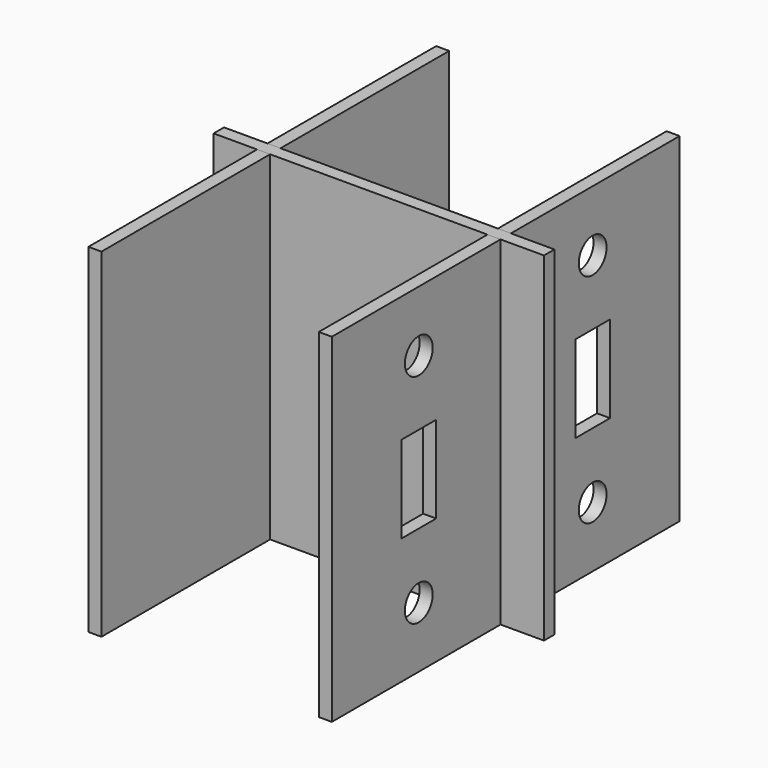
from build123d import *

# Parameters (mm, degrees)
F0_W     = 100
F0_H     = 78
F0_R     = 4
F0_W_2   = 10
F0_H_2   = 20
F1_DEPTH = 3
F3_W     = 100
F3_H     = 78
F4_DEPTH = 3
F5_W     = 56
F5_H     = 78
F5_R     = 2
F5_W_2   = 10
F6_DEPTH = 1.5


with BuildPart() as f1:
    # F0 (on Right) → F1 (new body)
    with BuildSketch(Plane.YZ):
        Rectangle(F0_W, F0_H)
        with Locations((-25, -25)):
            Circle(F0_R, mode=Mode.SUBTRACT)
        with Locations((25, -25)):
            Circle(F0_R, mode=Mode.SUBTRACT)
        with Locations((-25, 0)):
            Rectangle(F0_W_2, F0_H_2, mode=Mode.SUBTRACT)
        with Locations((-25, 25)):
            Circle(F0_R, mode=Mode.SUBTRACT)
        with Locations((25, 0)):
            Rectangle(F0_W_2, F0_H_2, mode=Mode.SUBTRACT)
        with Locations((25, 25)):
            Circle(F0_R, mode=Mode.SUBTRACT)
    extrude(amount=F1_DEPTH)


with BuildPart() as f4:
    # F3 (on offset) → F4 (new body)
    with BuildSketch(Plane(origin=(-50, 0, 0), x_dir=(0, 1, 0), z_dir=(-1, 0, 0))):
        Rectangle(F3_W, F3_H)
    extrude(amount=F4_DEPTH)


with BuildPart() as f6:
    # F5 (on Front) → F6 (new body, symmetric)
    with BuildSketch(Plane.XZ):
        with Locations((-25, 0)):
            Rectangle(F5_W, F5_H)
        with Locations((-12, 0)):
            Circle(F5_R, mode=Mode.SUBTRACT)
        with Locations((-58, 0)):
            Rectangle(F5_W_2, F5_H)
        with Locations((8, 0)):
            Rectangle(F5_W_2, F5_H)
    extrude(amount=F6_DEPTH, both=True)


solid = Compound([f1.part, f4.part, f6.part])
